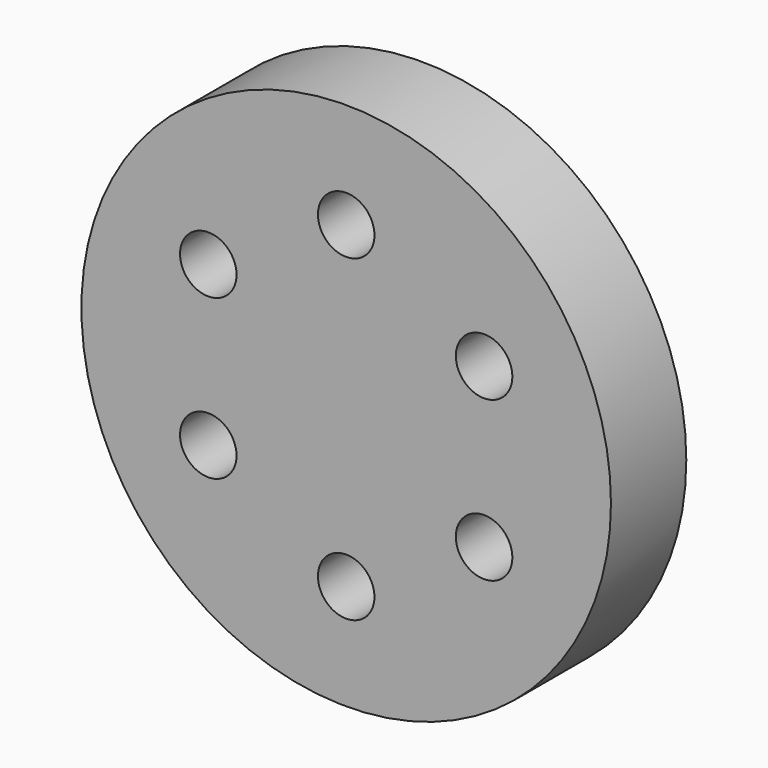
from build123d import *

# Parameters (mm, degrees)
F0_R     = 70.27153
F1_DEPTH = 25
F2_R     = 7.5
F3_DEPTH = 25


with BuildPart() as f1:
    # F0 (on Front) → F1 (new body)
    with BuildSketch(Plane.XZ):
        Circle(F0_R)
    extrude(amount=F1_DEPTH)

    # F2 (on face) → F3 (cut)
    with BuildSketch(Plane.XZ.offset(25)):
        with Locations((0, 42.264247)):
            Circle(F2_R)
        with Locations((-36.601911, 21.132123)):
            Circle(F2_R)
        with Locations((-36.601911, -21.132123)):
            Circle(F2_R)
        with Locations((0, -42.264247)):
            Circle(F2_R)
        with Locations((36.601911, -21.132123)):
            Circle(F2_R)
        with Locations((36.601911, 21.132123)):
            Circle(F2_R)
    extrude(amount=-F3_DEPTH, mode=Mode.SUBTRACT)


solid = f1.part
